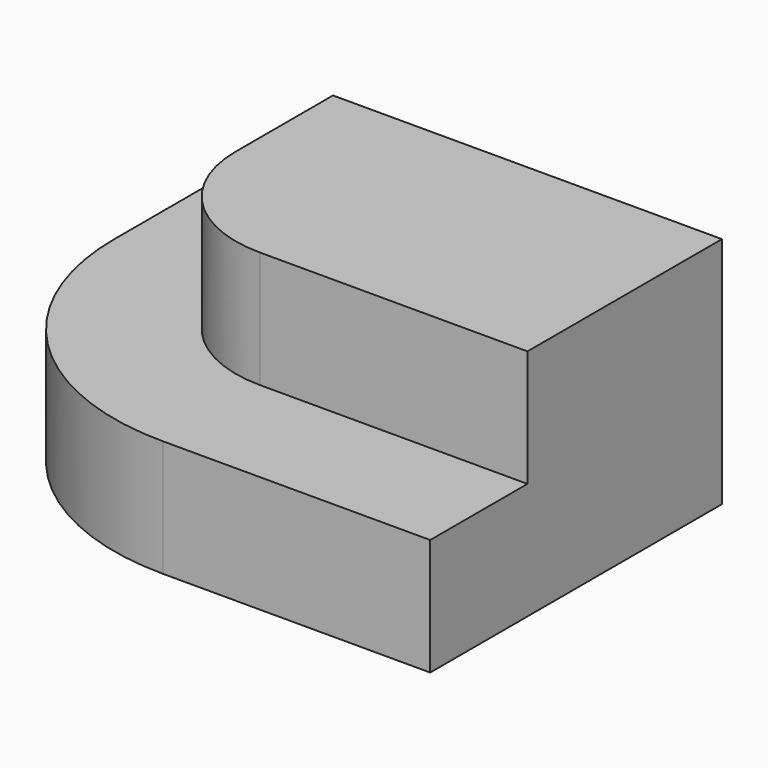
from build123d import *

# Parameters (mm, degrees)
F1_DEPTH = 240
F3_DEPTH = 240


with BuildPart() as f1:
    # F0 (on Top) → F1 (new body)
    with BuildSketch(Plane.XY):
        with BuildLine():
            Line((800, 0), (0, 0))
            Line((0, 0), (0, -250))
            ThreePointArc((0, -250), (73.223305, -426.776695), (250, -500))
            Line((250, -500), (800, -500))
            Line((800, -500), (800, 0))
        make_face()
    extrude(amount=-F1_DEPTH)

    # F2 (on face) → F3 (join)
    with BuildSketch(Plane(origin=(0, 0, -240), x_dir=(1, 0, 0), z_dir=(0, 0, -1))):
        with BuildLine():
            ThreePointArc((250, 750), (-103.553391, 603.553391), (-250, 250))
            Line((-250, 250), (-250, 0))
            Line((-250, 0), (800, 0))
            Line((800, 0), (800, 750))
            Line((800, 750), (250, 750))
        make_face()
    extrude(amount=F3_DEPTH)


solid = f1.part
